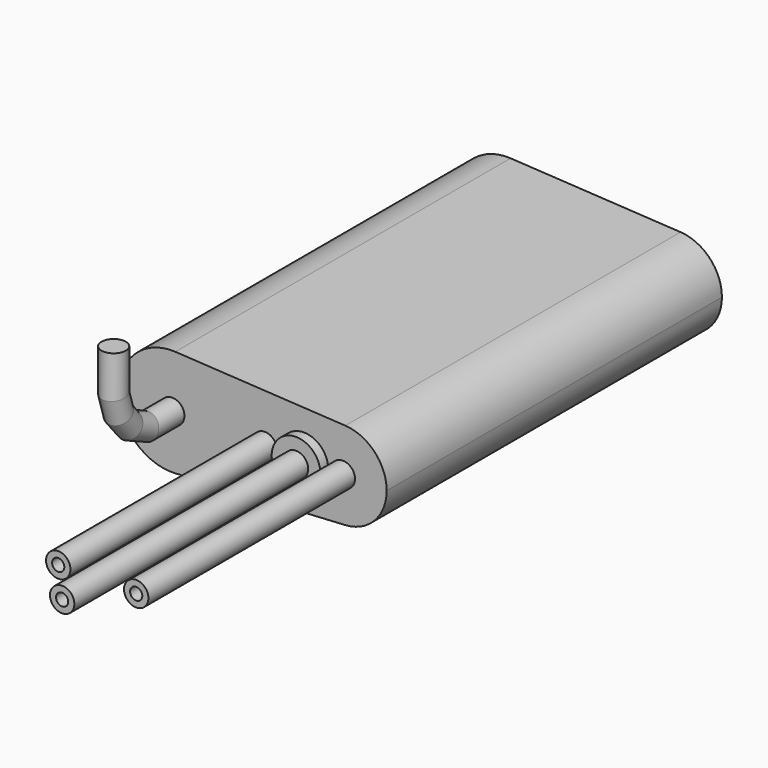
from build123d import *

# Parameters (mm, degrees)
F1_DEPTH  = 86
F2_R      = 5
F3_DEPTH  = 2
F2_R_2    = 2.5
F4_DEPTH  = 53
F5_R      = 2.5
F6_DEPTH  = 60
F7_DEPTH  = 60
F9_D      = 2.5
F9_DEPTH  = 12
F9_TIP    = 0.7510757738
F11_D     = 2.5
F11_DEPTH = 20
F11_TIP   = 0.7510757738


with BuildPart() as f1:
    # F0 (on Front) → F1 (new body)
    with BuildSketch(Plane.XZ):
        with BuildLine():
            ThreePointArc((0.6285714286, -10.9820261318), (7.99732098, -7.5526721856), (11, 0))
            ThreePointArc((11, 0), (7.99732098, 7.5526721856), (0.6285714286, 10.9820261318))
            ThreePointArc((0.6285714286, 10.9820261318), (-11, 0), (0.6285714286, -10.9820261318))
        make_face()
        with BuildLine():
            ThreePointArc((0.6285714286, 10.9820261318), (7.99732098, 7.5526721856), (11, 0))
            ThreePointArc((11, 0), (7.99732098, -7.5526721856), (0.6285714286, -10.9820261318))
            Line((0.6285714286, -10.9820261318), (35.5142857143, -8.9852941078))
            ThreePointArc((35.5142857143, -8.9852941078), (26, 0), (35.5142857143, 8.9852941078))
            Line((35.5142857143, 8.9852941078), (0.6285714286, 10.9820261318))
        make_face()
        with BuildLine():
            ThreePointArc((44, 0), (41.54326262, 6.1794590609), (35.5142857143, 8.9852941078))
            ThreePointArc((35.5142857143, 8.9852941078), (26, 0), (35.5142857143, -8.9852941078))
            ThreePointArc((35.5142857143, -8.9852941078), (41.54326262, -6.1794590609), (44, 0))
        make_face()
    extrude(amount=F1_DEPTH)

    # F2 (on face) → F3 (join)
    with BuildSketch(Plane.XZ.offset(86)):
        with Locations((27, 0)):
            Circle(F2_R)
    extrude(amount=F3_DEPTH)

    # F2 (on face) → F4 (join)
    with BuildSketch(Plane.XZ.offset(86)):
        with Locations((19, 0)):
            Circle(F2_R_2)
        with Locations((35, 0)):
            Circle(F2_R_2)
    extrude(amount=F4_DEPTH)

    # F5 (on face) → F6 (cut)
    with BuildSketch(Plane.XZ.offset(88)):
        with Locations((27, 0)):
            Circle(F5_R)
    extrude(amount=-F6_DEPTH, mode=Mode.SUBTRACT)

    # F9
    with Locations(Plane.XZ.offset(139)):
        with Locations((19, 0), (35, 0)):
            Hole(F9_D / 2, depth=F9_DEPTH)
            with Locations((0, 0, -(F9_DEPTH + F9_TIP / 2))):  # 118° drill point
                Cone(0, F9_D / 2, F9_TIP, mode=Mode.SUBTRACT)

    # F13: sweep along a path in F12
    with BuildLine(Plane.YZ) as f13_path:
        Line((-86, 0), (-92.6378890872, 0))
        Line((-92.6378890872, 0), (-97.0217064023, 2.0130740013))
        Line((-97.0217064023, 2.0130740013), (-99.7427776456, 5.263236817))
        Line((-99.7427776456, 5.263236817), (-101.0277271271, 9.4960071146))
        Line((-101.0277271271, 9.4960071146), (-101.0277271271, 17.8988836706))
    # F2 (on face) → F13 (sweep)
    with BuildSketch(Plane.XZ.offset(86)):
        Circle(F2_R_2)
    sweep(path=f13_path.line, transition=Transition.RIGHT)


with BuildPart() as f7:
    # F5 (on face) → F7 (new body)
    with BuildSketch(Plane.XZ.offset(88)):
        with Locations((27, 0)):
            Circle(F5_R)
    extrude(amount=F7_DEPTH)

    # F11
    with Locations(Plane.XZ.offset(148)):
        with Locations((27, 0)):
            Hole(F11_D / 2, depth=F11_DEPTH)
            with Locations((0, 0, -(F11_DEPTH + F11_TIP / 2))):  # 118° drill point
                Cone(0, F11_D / 2, F11_TIP, mode=Mode.SUBTRACT)


solid = Compound([f1.part, f7.part])
